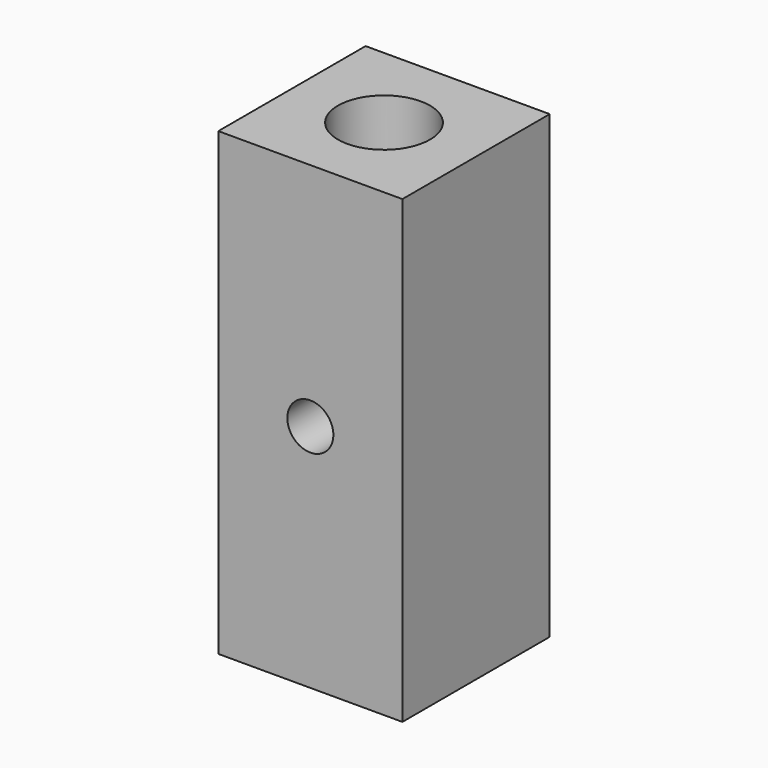
from build123d import *

# Parameters (mm, degrees)
F0_W     = 25.4
F0_H     = 25.4
F0_R     = 6.35
F1_DEPTH = 63.5
F2_R     = 3.175
F3_DEPTH = 25.401


with BuildPart() as f1:
    # F0 (on Top) → F1 (new body)
    with BuildSketch(Plane.XY):
        Rectangle(F0_W, F0_H)
        Circle(F0_R, mode=Mode.SUBTRACT)
    extrude(amount=F1_DEPTH)

    # F2 (on face) → F3 (cut, through all)
    with BuildSketch(Plane.XZ.offset(12.7)):
        with Locations((0, 31.75)):
            Circle(F2_R)
    extrude(amount=-F3_DEPTH, mode=Mode.SUBTRACT)


solid = f1.part
